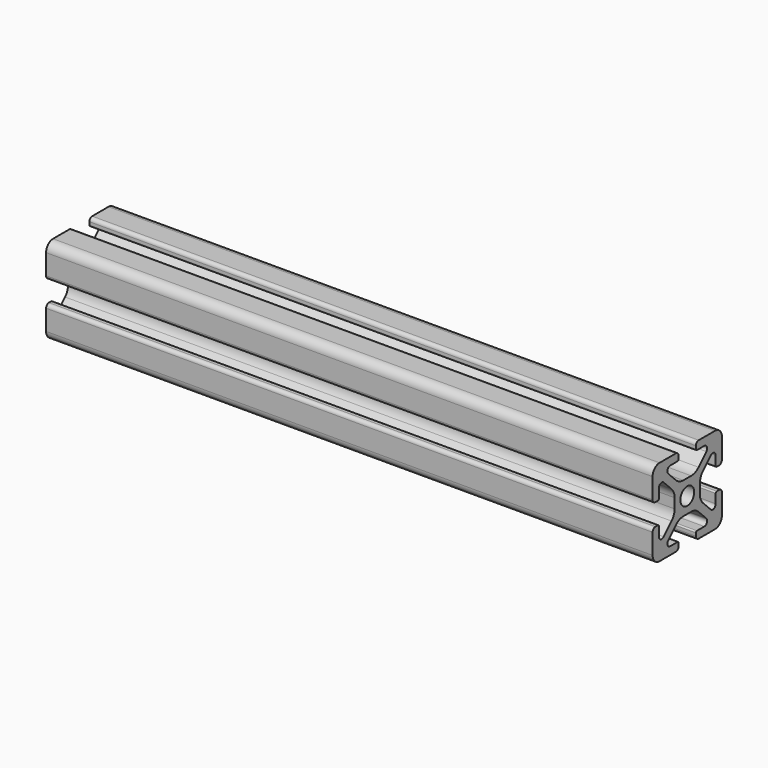
from build123d import *

# Parameters (mm, degrees)
F0_R     = 2
F1_DEPTH = 140


with BuildPart() as f1:
    # F0 (on Right) → F1 (new body)
    with BuildSketch(Plane.YZ):
        with BuildLine():
            Line((-3.3, 10), (-8, 10))
            ThreePointArc((-8, 10), (-9.414214, 9.414214), (-10, 8))
            Line((-10, 8), (-10, 3.3))
            ThreePointArc((-10, 3.3), (-9.765685, 2.734315), (-9.2, 2.5))
            Line((-9.2, 2.5), (-8.5, 2.5))
            ThreePointArc((-8.5, 2.5), (-8.287868, 2.587868), (-8.2, 2.8))
            Line((-8.2, 2.8), (-8.2, 4.92))
            ThreePointArc((-8.2, 4.92), (-7.687627, 5.68682), (-6.783101, 5.506899))
            Line((-6.783101, 5.506899), (-4.525962, 3.249759))
            ThreePointArc((-4.525962, 3.249759), (-3.877655, 2.279499), (-3.65, 1.135))
            Line((-3.65, 1.135), (-3.65, -1.135))
            ThreePointArc((-3.65, -1.135), (-3.877655, -2.279499), (-4.525962, -3.249759))
            Line((-4.525962, -3.249759), (-6.783101, -5.506899))
            ThreePointArc((-6.783101, -5.506899), (-7.687627, -5.68682), (-8.2, -4.92))
            Line((-8.2, -4.92), (-8.2, -2.8))
            ThreePointArc((-8.2, -2.8), (-8.287868, -2.587868), (-8.5, -2.5))
            Line((-8.5, -2.5), (-9.2, -2.5))
            ThreePointArc((-9.2, -2.5), (-9.765685, -2.734315), (-10, -3.3))
            Line((-10, -3.3), (-10, -8))
            ThreePointArc((-10, -8), (-9.414214, -9.414214), (-8, -10))
            Line((-8, -10), (-3.3, -10))
            ThreePointArc((-3.3, -10), (-2.734315, -9.765685), (-2.5, -9.2))
            Line((-2.5, -9.2), (-2.5, -8.5))
            ThreePointArc((-2.5, -8.5), (-2.587868, -8.287868), (-2.8, -8.2))
            Line((-2.8, -8.2), (-4.92, -8.2))
            ThreePointArc((-4.92, -8.2), (-5.68682, -7.687627), (-5.506899, -6.783101))
            Line((-5.506899, -6.783101), (-3.249759, -4.525962))
            ThreePointArc((-3.249759, -4.525962), (-2.279499, -3.877655), (-1.135, -3.65))
            Line((-1.135, -3.65), (1.135, -3.65))
            ThreePointArc((1.135, -3.65), (2.279499, -3.877655), (3.249759, -4.525962))
            Line((3.249759, -4.525962), (5.506899, -6.783101))
            ThreePointArc((5.506899, -6.783101), (5.68682, -7.687627), (4.92, -8.2))
            Line((4.92, -8.2), (2.8, -8.2))
            ThreePointArc((2.8, -8.2), (2.587868, -8.287868), (2.5, -8.5))
            Line((2.5, -8.5), (2.5, -9.2))
            ThreePointArc((2.5, -9.2), (2.734315, -9.765685), (3.3, -10))
            Line((3.3, -10), (8, -10))
            ThreePointArc((8, -10), (9.414214, -9.414214), (10, -8))
            Line((10, -8), (10, -3.3))
            ThreePointArc((10, -3.3), (9.765685, -2.734315), (9.2, -2.5))
            Line((9.2, -2.5), (8.5, -2.5))
            ThreePointArc((8.5, -2.5), (8.287868, -2.587868), (8.2, -2.8))
            Line((8.2, -2.8), (8.2, -4.92))
            ThreePointArc((8.2, -4.92), (7.687627, -5.68682), (6.783101, -5.506899))
            Line((6.783101, -5.506899), (4.525962, -3.249759))
            ThreePointArc((4.525962, -3.249759), (3.877655, -2.279499), (3.65, -1.135))
            Line((3.65, -1.135), (3.65, 1.135))
            ThreePointArc((3.65, 1.135), (3.877655, 2.279499), (4.525962, 3.249759))
            Line((4.525962, 3.249759), (6.783101, 5.506899))
            ThreePointArc((6.783101, 5.506899), (7.687627, 5.68682), (8.2, 4.92))
            Line((8.2, 4.92), (8.2, 2.8))
            ThreePointArc((8.2, 2.8), (8.287868, 2.587868), (8.5, 2.5))
            Line((8.5, 2.5), (9.2, 2.5))
            ThreePointArc((9.2, 2.5), (9.765685, 2.734315), (10, 3.3))
            Line((10, 3.3), (10, 8))
            ThreePointArc((10, 8), (9.414214, 9.414214), (8, 10))
            Line((8, 10), (3.3, 10))
            ThreePointArc((3.3, 10), (2.734315, 9.765685), (2.5, 9.2))
            Line((2.5, 9.2), (2.5, 8.5))
            ThreePointArc((2.5, 8.5), (2.587868, 8.287868), (2.8, 8.2))
            Line((2.8, 8.2), (4.92, 8.2))
            ThreePointArc((4.92, 8.2), (5.68682, 7.687627), (5.506899, 6.783101))
            Line((5.506899, 6.783101), (3.249759, 4.525962))
            ThreePointArc((3.249759, 4.525962), (2.279499, 3.877655), (1.135, 3.65))
            Line((1.135, 3.65), (-1.135, 3.65))
            ThreePointArc((-1.135, 3.65), (-2.279499, 3.877655), (-3.249759, 4.525962))
            Line((-3.249759, 4.525962), (-5.506899, 6.783101))
            ThreePointArc((-5.506899, 6.783101), (-5.68682, 7.687627), (-4.92, 8.2))
            Line((-4.92, 8.2), (-2.8, 8.2))
            ThreePointArc((-2.8, 8.2), (-2.587868, 8.287868), (-2.5, 8.5))
            Line((-2.5, 8.5), (-2.5, 9.2))
            ThreePointArc((-2.5, 9.2), (-2.734315, 9.765685), (-3.3, 10))
        make_face()
        Circle(F0_R, mode=Mode.SUBTRACT)
    extrude(amount=F1_DEPTH)


solid = f1.part
